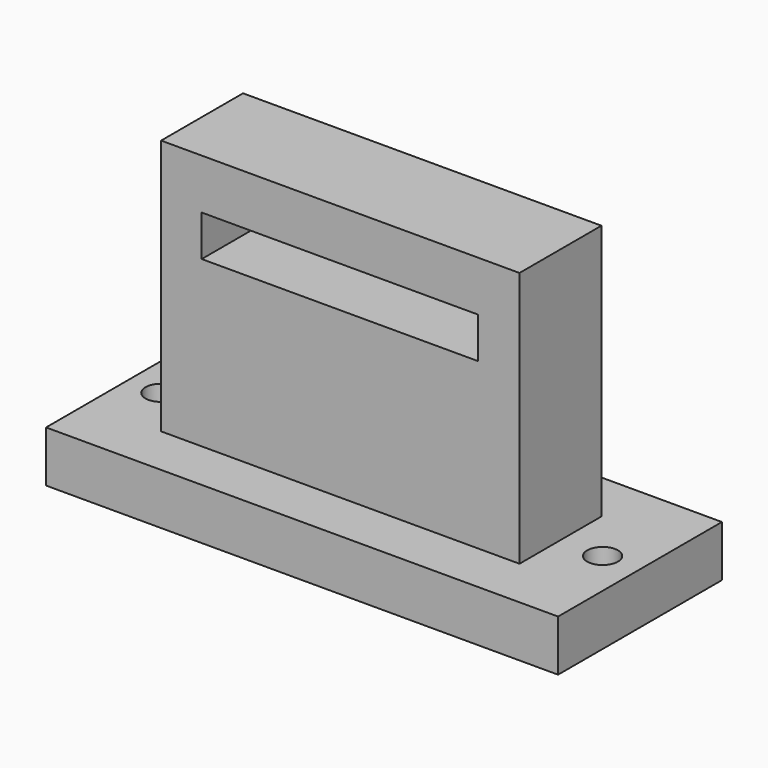
from build123d import *

# Parameters (mm, degrees)
SKETCH_W     = 50
SKETCH_H     = 20
PAD_DEPTH    = 5
SKETCH001_R  = 1.5
HOLE_DEPTH   = 25
SKETCH002_W  = 35
SKETCH002_H  = 10
PAD001_DEPTH = 25
SKETCH003_W  = 27
SKETCH003_H  = 4
POCKET_DEPTH = 11


with BuildPart() as part:
    # Sketch → Pad (new body)
    with BuildSketch(Plane.XY):
        with Locations((0.229687, 0.070392)):
            Rectangle(SKETCH_W, SKETCH_H)
    extrude(amount=PAD_DEPTH)

    # Sketch001 (on Face6 of Pad) → Hole (cut)
    with BuildSketch(Plane.XY.offset(5)):
        with Locations((-21.502412, 0)):
            Circle(SKETCH001_R)
        with Locations((21.629828, 0)):
            Circle(SKETCH001_R)
    extrude(amount=-HOLE_DEPTH, mode=Mode.SUBTRACT)

    # Sketch002 (on Face5 of Hole) → Pad001 (join)
    with BuildSketch(Plane.XY.offset(5)):
        with Locations((-0.013338, 0.040416)):
            Rectangle(SKETCH002_W, SKETCH002_H)
    extrude(amount=PAD001_DEPTH)

    # Sketch003 (on Face12 of Pad001) → Pocket (cut)
    with BuildSketch(Plane(origin=(0, 5.040416, 0), x_dir=(-1, 0, 0), z_dir=(0, 1, 0))):
        with Locations((0.049137, 23.104307)):
            Rectangle(SKETCH003_W, SKETCH003_H)
    extrude(amount=-POCKET_DEPTH, mode=Mode.SUBTRACT)


with BuildPart() as part_1:
    # Body placement: moved
    add(part.part.moved(Location((0, 3, 0))))


solid = part_1.part
